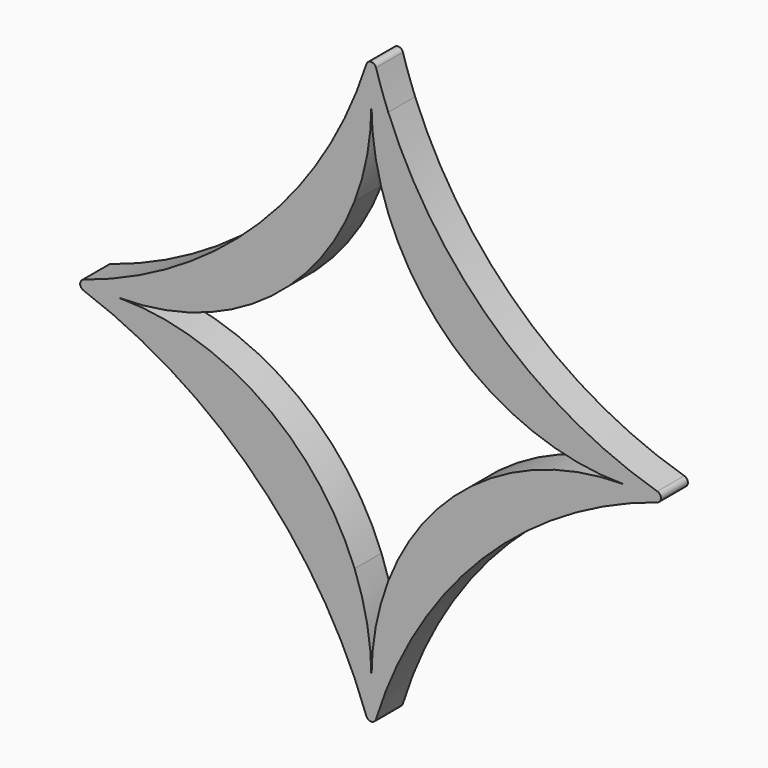
from build123d import *

# Parameters (mm, degrees)
F2_DEPTH = 2.54
F1_R     = 0.381


with BuildPart() as f2:
    # F0 (on Front) → F2 (new body)
    with BuildSketch(Plane.XZ):
        with BuildLine():
            ThreePointArc((22.86, 0), (9.785629, 6.867781), (1.27, 18.933834))
            ThreePointArc((1.27, 18.933834), (0.570733, 20.876128), (0, 22.86))
            ThreePointArc((0, 22.86), (-8.432114, 8.432114), (-22.86, 0))
            ThreePointArc((-22.86, 0), (-8.650747, -8.650747), (0, -22.86))
            ThreePointArc((0, -22.86), (8.390302, -8.390302), (22.86, 0))
        make_face()
        with BuildLine():
            ThreePointArc((1.27, -12.210841), (0.320191, -15.571962), (0, -19.05))
            ThreePointArc((0, -19.05), (-0.320191, -15.571962), (-1.27, -12.210841))
            ThreePointArc((-1.27, -12.210841), (-8.265369, -3.346681), (-19.05, 0))
            ThreePointArc((-19.05, 0), (-8.265369, 3.346681), (-1.27, 12.210841))
            ThreePointArc((-1.27, 12.210841), (-0.320191, 15.571962), (0, 19.05))
            ThreePointArc((0, 19.05), (0.320191, 15.571962), (1.27, 12.210841))
            ThreePointArc((1.27, 12.210841), (8.265369, 3.346681), (19.05, 0))
            ThreePointArc((19.05, 0), (8.265369, -3.346681), (1.27, -12.210841))
        make_face(mode=Mode.SUBTRACT)
    extrude(amount=F2_DEPTH)

    # F1
    f1_edges = [f2.edges().sort_by_distance(p)[0] for p in [
        (0, -1.27, 22.86),
        (22.86, -1.27, 0),
        (0, -1.27, -22.86),
        (-22.86, -1.27, 0),
    ]]
    fillet(f1_edges, radius=F1_R)


solid = f2.part
